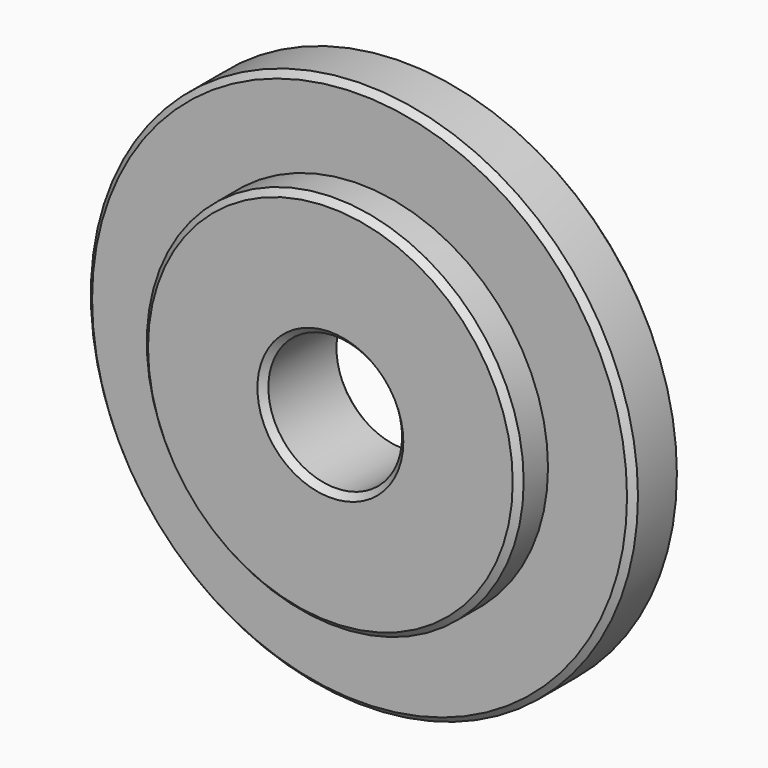
from build123d import *

# Parameters (mm, degrees)
F0_R     = 22.5
F0_R_2   = 5.5
F1_DEPTH = 8
F2_R     = 22.5
F2_R_2   = 15.5
F3_DEPTH = 3
F4_SIZE  = 0.5
F5_SIZE  = 0.5


with BuildPart() as f1:
    # F0 (on Front) → F1 (new body)
    with BuildSketch(Plane.XZ):
        Circle(F0_R)
        Circle(F0_R_2, mode=Mode.SUBTRACT)
    extrude(amount=F1_DEPTH)

    # F2 (on face) → F3 (cut)
    with BuildSketch(Plane.XZ.offset(8)):
        Circle(F2_R)
        Circle(F2_R_2, mode=Mode.SUBTRACT)
    extrude(amount=-F3_DEPTH, mode=Mode.SUBTRACT)

    # F4
    f4_edges = [f1.edges().sort_by_distance(p)[0] for p in [
        (-22.5, 0, 0),
        (-22.5, -5, 0),
        (-15.5, -8, 0),
    ]]
    chamfer(f4_edges, length=F4_SIZE)

    # F5
    f5_edges = [f1.edges().sort_by_distance(p)[0] for p in [
        (-5.5, -8, 0),
        (-5.5, 0, 0),
    ]]
    chamfer(f5_edges, length=F5_SIZE)


solid = f1.part
